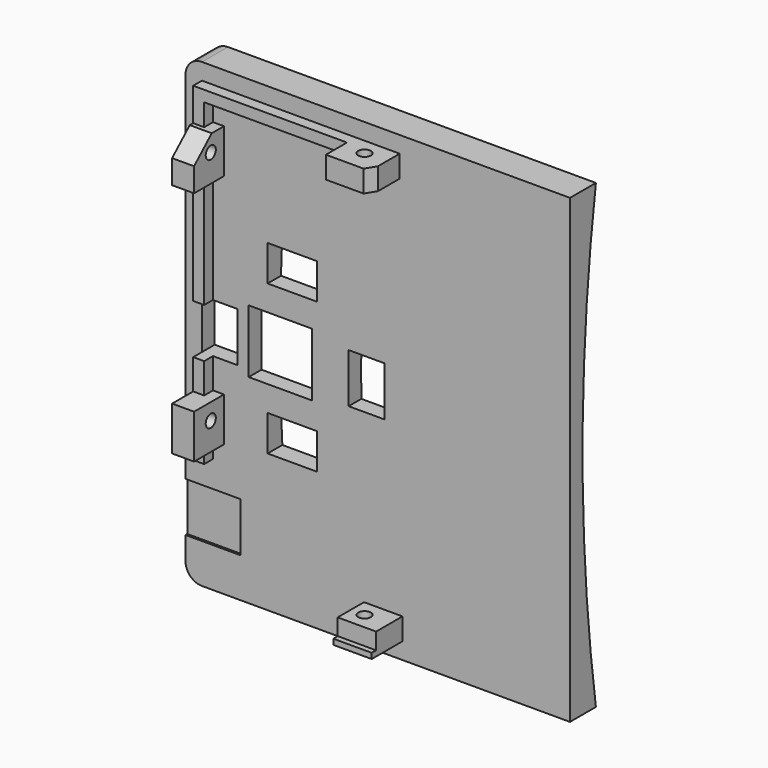
from build123d import *

# Parameters (mm, degrees)
SKETCH009_W             = 84
SKETCH009_H             = 70
PAD002_DEPTH            = 2
SKETCH010_W             = 2
SKETCH010_H             = 7
PAD003_DEPTH            = 2
SKETCH012_W             = 8
SKETCH012_H             = 6.8
PAD004_DEPTH            = 4
SKETCH013_W             = 7
SKETCH013_H             = 6
PAD005_DEPTH            = 4
SKETCH011_W             = 8
SKETCH011_H             = 6.8
PAD006_DEPTH            = 4
SKETCH014_R             = 1.15
POCKET002_DEPTH         = 81.001
SKETCH016_R             = 1.15
POCKET003_DEPTH         = 8.501
SKETCH018_W             = 11.5
SKETCH018_H             = 11.5
POCKET004_DEPTH         = 5
POCKET005_DEPTH         = 5
POCKET006_DEPTH         = 5
SKETCH021_W             = 1
SKETCH021_H             = 7
PAD007_DEPTH            = 1
SKETCH022_W             = 9
SKETCH022_H             = 10
POCKET007_DEPTH         = 0.4
FILLET_R                = 3
BODY002_PITCH_ANGLE     = -90
BODY002_PLACEMENT_ANGLE = 90
PAD001_DEPTH            = 35
SKETCH007_W             = 11.5
SKETCH007_H             = 11.5
POCKET001_DEPTH         = 13
FILLET001_R             = 3
SKETCH025_W             = 6.5
SKETCH025_H             = 9
SKETCH025_W_2           = 9
SKETCH025_H_2           = 6.5
POCKET008_DEPTH         = 8


with BuildPart() as back:
    # Sketch009 → Pad002 (new body)
    with BuildSketch(Plane.XY):
        Rectangle(SKETCH009_W, SKETCH009_H)
    extrude(amount=PAD002_DEPTH)

    # Sketch010 (on Face6 of Pad002) → Pad003 (join)
    with BuildSketch(Plane.XY.offset(2)):
        with Locations((-38, -1)):
            Rectangle(SKETCH010_W, SKETCH010_H)
        Polygon((-21, 32), (39, 32), (39, -4), (37, -4), (37, 30), (-21, 30), align=None)
    extrude(amount=PAD003_DEPTH)

    # Sketch012 (on Face15 of Pad003) → Pad004 (join)
    with BuildSketch(Plane.YZ.offset(39)):
        with Locations((0, 5.4)):
            Rectangle(SKETCH012_W, SKETCH012_H)
    extrude(amount=-PAD004_DEPTH)

    # Sketch013 (on Face9 of Pad004) → Pad005 (join)
    with BuildSketch(Plane(origin=(-39, 0, 0), x_dir=(0, -1, 0), z_dir=(-1, 0, 0))):
        with Locations((1, 5)):
            Rectangle(SKETCH013_W, SKETCH013_H)
    extrude(amount=-PAD005_DEPTH)

    # Sketch011 (on Face16 of Pad003) → Pad006 (join)
    with BuildSketch(Plane(origin=(0, 32, 0), x_dir=(-1, 0, 0), z_dir=(0, 1, 0))):
        with Locations((-29, 5.4)):
            Rectangle(SKETCH011_W, SKETCH011_H)
        with Locations((14, 5.4)):
            Rectangle(SKETCH011_W, SKETCH011_H)
    extrude(amount=-PAD006_DEPTH)

    # Sketch014 (on Face44 of Pad006) → Pocket002 (cut, through all)
    with BuildSketch(Plane.YZ.offset(39)):
        with Locations((0, 5)):
            Circle(SKETCH014_R)
    extrude(amount=-POCKET002_DEPTH, mode=Mode.SUBTRACT)

    # Sketch016 → Pocket003 (cut, through all)
    with BuildSketch(Plane.XZ.offset(-26.5)):
        with Locations((-13, 5)):
            Circle(SKETCH016_R)
        with Locations((30, 5)):
            Circle(SKETCH016_R)
    extrude(amount=-POCKET003_DEPTH, mode=Mode.SUBTRACT)

    # Sketch018 (on Face5 of Pocket003) → Pocket004 (cut)
    with BuildSketch(Plane.XY.offset(2)):
        with Locations((0, 17.75)):
            Rectangle(SKETCH018_W, SKETCH018_H)
    extrude(amount=-POCKET004_DEPTH, mode=Mode.SUBTRACT)

    # Sketch019 (on Face31 of Pocket004) → Pocket005 (cut)
    with BuildSketch(Plane.XZ.offset(-28)):
        Polygon((29.125944, 9.042901), (33.258869, 4.499726), (33.258869, 9.042901), align=None)
    extrude(amount=-POCKET005_DEPTH, mode=Mode.SUBTRACT)

    # Sketch020 (on Face36 of Pocket005) → Pocket006 (cut)
    with BuildSketch(Plane(origin=(35, 0, 0), x_dir=(0, -1, 0), z_dir=(-1, 0, 0))):
        Polygon((2.77547, 8.938441), (6.386171, 3.079567), (6.386171, 8.938441), align=None)
    extrude(amount=-POCKET006_DEPTH, mode=Mode.SUBTRACT)

    # Sketch021 (on Face40 of Pocket006) → Pad007 (join)
    with BuildSketch(Plane.XY.offset(8)):
        with Locations((-38.5, -1)):
            Rectangle(SKETCH021_W, SKETCH021_H)
    extrude(amount=PAD007_DEPTH)

    # Sketch022 (on Face5 of Pocket005) → Pocket007 (cut)
    with BuildSketch(Plane.XY.offset(2)):
        with Locations((-30.3, 30)):
            Rectangle(SKETCH022_W, SKETCH022_H)
    extrude(amount=-POCKET007_DEPTH, mode=Mode.SUBTRACT)

    # Fillet
    fillet_edges = [back.edges().sort_by_distance(p)[0] for p in [
        (42, 35, 1),
        (-42, 35, 1),
    ]]
    fillet(fillet_edges, radius=FILLET_R)


with BuildPart() as back_1:
    # Body002 pitch: moved
    add(back.part.rotate(Axis((0, 0, 0), (0, 1, 0)), BODY002_PITCH_ANGLE))


with BuildPart() as back_2:
    # Body002 placement: moved
    add(back_1.part.rotate(Axis((0, 0, 0), (0, 0, 1)), BODY002_PLACEMENT_ANGLE))


with BuildPart() as curve:
    # Sketch006 → Pad001 (new body, symmetric)
    with BuildSketch(Plane(origin=(0, 0, 0), x_dir=(0, 0, -1), z_dir=(1, 0, 0))):
        with BuildLine():
            ThreePointArc((-42, 3.9), (0, 0.863666), (42, 3.9))
            Line((42, -0.1), (42, 3.9))
            Line((-42, -0.1), (42, -0.1))
            Line((-42, 3.9), (-42, -0.1))
        make_face()
    extrude(amount=PAD001_DEPTH, both=True)

    # Sketch007 (on Face3 of Pad001) → Pocket001 (cut)
    with BuildSketch(Plane.XZ.offset(0.1)):
        with Locations((-17.75, 0)):
            Rectangle(SKETCH007_W, SKETCH007_H)
    extrude(amount=-POCKET001_DEPTH, mode=Mode.SUBTRACT)

    # Fillet001
    fillet001_edges = [curve.edges().sort_by_distance(p)[0] for p in [
        (-35, 1.9, -42),
        (-35, 1.9, 42),
    ]]
    fillet(fillet001_edges, radius=FILLET001_R)

    # Boolean: union Back
    add(back_2.part)

    # Sketch025 (on Face32 of Boolean) → Pocket008 (cut, symmetric)
    with BuildSketch(Plane.XZ.offset(2)):
        with Locations((-28.75, 0)):
            Rectangle(SKETCH025_W, SKETCH025_H)
        with Locations((-15.55, 13.625)):
            Rectangle(SKETCH025_W_2, SKETCH025_H_2)
        with Locations((-2.05, 0)):
            Rectangle(SKETCH025_W, SKETCH025_H)
        with Locations((-15.55, -13.625)):
            Rectangle(SKETCH025_W_2, SKETCH025_H_2)
    extrude(amount=POCKET008_DEPTH, both=True, mode=Mode.SUBTRACT)


solid = curve.part
